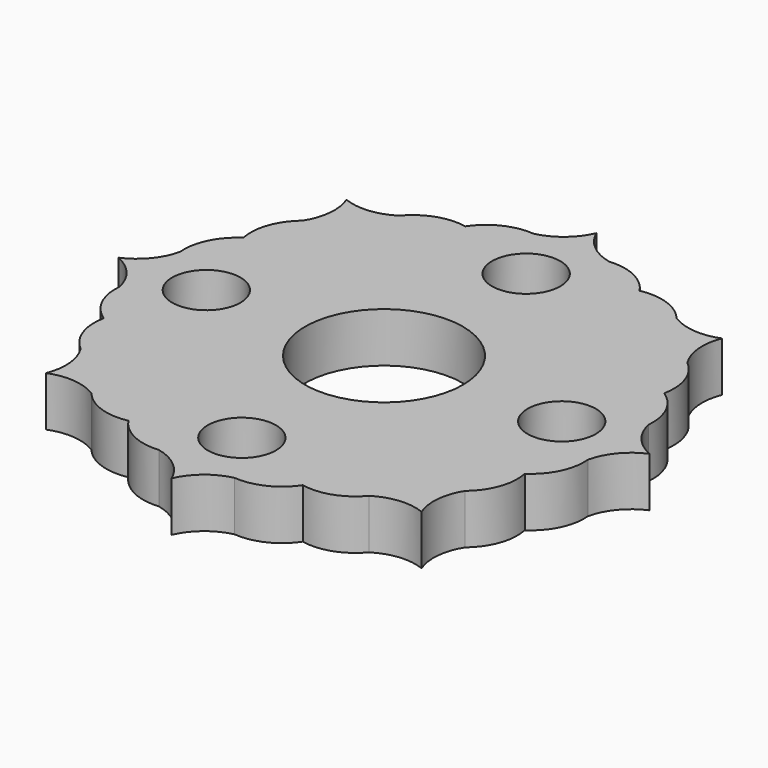
from build123d import *

# Parameters (mm, degrees)
F0_R     = 4.8
F0_R_2   = 11.1
F1_DEPTH = 7


with BuildPart() as f1:
    # F0 (on Top) → F1 (new body)
    with BuildSketch(Plane.XY):
        with BuildLine():
            ThreePointArc((37.352308, 0), (34.510187, 2.131604), (32.940391, 5.318628))
            ThreePointArc((32.940391, 5.318628), (32.238074, 9.251883), (29.617663, 12.268038))
            ThreePointArc((29.617663, 12.268038), (29.33783, 16.253692), (27.053212, 19.531536))
            ThreePointArc((27.053212, 19.531536), (25.909659, 22.895116), (26.41207, 26.41207))
            ThreePointArc((26.41207, 26.41207), (22.895116, 25.909659), (19.531536, 27.053212))
            ThreePointArc((19.531536, 27.053212), (16.253692, 29.33783), (12.268038, 29.617663))
            ThreePointArc((12.268038, 29.617663), (9.251883, 32.238074), (5.318628, 32.940391))
            ThreePointArc((5.318628, 32.940391), (2.131604, 34.510187), (0, 37.352308))
            ThreePointArc((0, 37.352308), (-2.131604, 34.510187), (-5.318628, 32.940391))
            ThreePointArc((-5.318628, 32.940391), (-9.251883, 32.238074), (-12.268038, 29.617663))
            ThreePointArc((-12.268038, 29.617663), (-16.253692, 29.33783), (-19.531536, 27.053212))
            ThreePointArc((-19.531536, 27.053212), (-22.895116, 25.909659), (-26.41207, 26.41207))
            ThreePointArc((-26.41207, 26.41207), (-25.909659, 22.895116), (-27.053212, 19.531536))
            ThreePointArc((-27.053212, 19.531536), (-29.33783, 16.253692), (-29.617663, 12.268038))
            ThreePointArc((-29.617663, 12.268038), (-32.238074, 9.251883), (-32.940391, 5.318628))
            ThreePointArc((-32.940391, 5.318628), (-34.510187, 2.131604), (-37.352308, 0))
            ThreePointArc((-37.352308, 0), (-34.510187, -2.131604), (-32.940391, -5.318628))
            ThreePointArc((-32.940391, -5.318628), (-32.238074, -9.251883), (-29.617663, -12.268038))
            ThreePointArc((-29.617663, -12.268038), (-29.33783, -16.253692), (-27.053212, -19.531536))
            ThreePointArc((-27.053212, -19.531536), (-25.909659, -22.895116), (-26.41207, -26.41207))
            ThreePointArc((-26.41207, -26.41207), (-22.895116, -25.909659), (-19.531536, -27.053212))
            ThreePointArc((-19.531536, -27.053212), (-16.253692, -29.33783), (-12.268038, -29.617663))
            ThreePointArc((-12.268038, -29.617663), (-9.251883, -32.238074), (-5.318628, -32.940391))
            ThreePointArc((-5.318628, -32.940391), (-2.131604, -34.510187), (0, -37.352308))
            ThreePointArc((0, -37.352308), (2.131604, -34.510187), (5.318628, -32.940391))
            ThreePointArc((5.318628, -32.940391), (9.251883, -32.238074), (12.268038, -29.617663))
            ThreePointArc((12.268038, -29.617663), (16.253692, -29.33783), (19.531536, -27.053212))
            ThreePointArc((19.531536, -27.053212), (22.895116, -25.909659), (26.41207, -26.41207))
            ThreePointArc((26.41207, -26.41207), (25.909659, -22.895116), (27.053212, -19.531536))
            ThreePointArc((27.053212, -19.531536), (29.33783, -16.253692), (29.617663, -12.268038))
            ThreePointArc((29.617663, -12.268038), (32.238074, -9.251883), (32.940391, -5.318628))
            ThreePointArc((32.940391, -5.318628), (34.510187, -2.131604), (37.352308, 0))
        make_face()
        with Locations((0, -25)):
            Circle(F0_R, mode=Mode.SUBTRACT)
        with Locations((-25, 0)):
            Circle(F0_R, mode=Mode.SUBTRACT)
        Circle(F0_R_2, mode=Mode.SUBTRACT)
        with Locations((25, 0)):
            Circle(F0_R, mode=Mode.SUBTRACT)
        with Locations((0, 25)):
            Circle(F0_R, mode=Mode.SUBTRACT)
    extrude(amount=F1_DEPTH)


solid = f1.part
